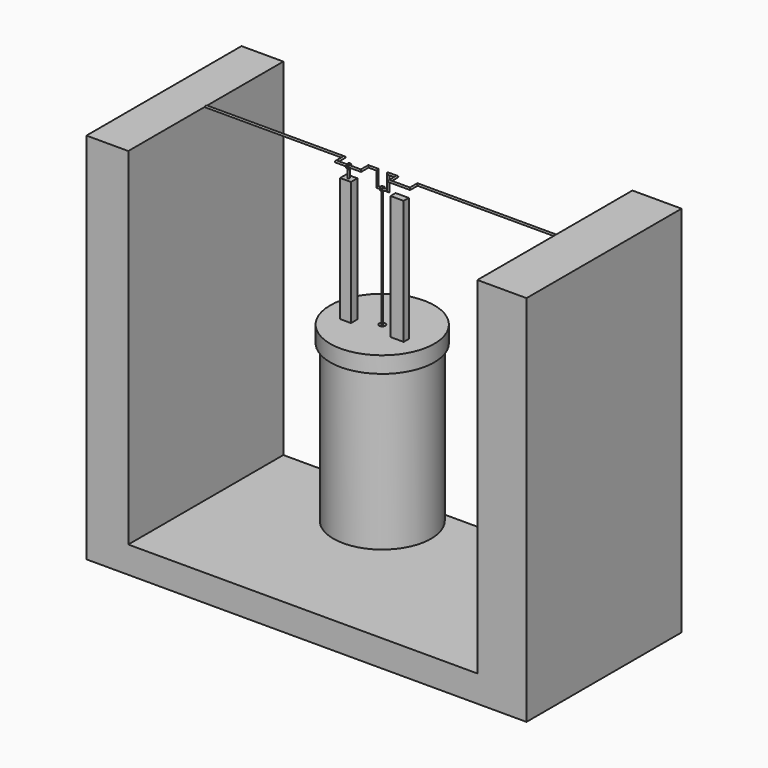
from build123d import *

# Parameters (mm, degrees)
F0_W      = 0.1947950749
F0_H      = 56.1171844602
F0_H_2    = 2.54
F0_H_3    = 19.478252266
F4_R      = 0.4402455132
F11_W     = 5.1980465651
F11_H     = 3.8275388069
F12_DEPTH = 59.2582
F11_W_2   = 6.2818654567
F11_H_2   = 3.045688549
F14_R     = 0.6162294101
F15_DEPTH = 0.44704
F18_R     = 1.1483963801
F18_R_2   = 0.5641964146
F19_DEPTH = 0.3556
F20_R     = 0.3851252417
F21_DEPTH = 4.2672
F22_DEPTH = 46.228


with BuildPart() as f5:
    # F0 (on Front) → F5 (revolve)
    with BuildSketch(Plane.XZ):
        Polygon((0, 74.58024472), (0, 0), (23.299543187, 0), (23.299543187, 2.54), (2.54, 2.54), (2.54, 79.8467842555), (0, 79.8467842555), align=None)
    revolve(axis=Axis((23.299543187, 0, 69.2519843578), (0, 0, 1)))


with BuildPart() as f6:
    # F0 (on Front) → F6 (revolve)
    with BuildSketch(Plane.XZ):
        Polygon((-1.5354988864, 74.58024472), (0, 74.58024472), (0, 79.8467842555), (2.54, 79.8467842555), (21.7997170985, 79.8467842555), (21.7997170985, 82.3867842555), (-1.5354988864, 82.3867842555), align=None)
    revolve(axis=Axis((23.299543187, 0, 69.2519843578), (0, 0, 1)))


with BuildPart() as f7:
    # F0 (on Front) → F7 (revolve)
    with BuildSketch(Plane.XZ):
        Polygon((11.545549036, 18.32194035), (23.299543187, 18.32194035), (23.299543187, 60.3685319895), (23.1047481121, 60.3685319895), (11.545549036, 60.3685319895), align=None)
    revolve(axis=Axis((23.299543187, 0, 69.2519843578), (0, 0, 1)))


with BuildPart() as f8:
    # F0 (on Front) → F8 (revolve)
    with BuildSketch(Plane.XZ):
        with Locations((23.2021456496, 110.4453764856)):
            Rectangle(F0_W, F0_H)
        with Locations((23.2021456496, 81.1167842555)):
            Rectangle(F0_W, F0_H_2)
        with Locations((23.2021456496, 70.1076581225)):
            Rectangle(F0_W, F0_H_3)
    revolve(axis=Axis((23.299543187, 0, 69.2519843578), (0, 0, 1)))

    # F14 (on line) → F15 (join, symmetric)
    with BuildSketch(Plane(origin=(23.299543187, 0, 0), x_dir=(0, -1, 0), z_dir=(-1, 0, 0))):
        with BuildLine():
            ThreePointArc((0.2958931431, 138.5512784378), (0.7685494681, 138.8962742348), (0.9489694498, 139.4529381654))
            ThreePointArc((0.9489694498, 139.4529381654), (-0.5393416407, 140.2337413488), (-0.3359056562, 138.5654076551))
            ThreePointArc((-0.3359056562, 138.5654076551), (-0.0212169507, 138.5042059284), (0.2958931431, 138.5512784378))
        make_face()
        with Locations((0, 139.4529381654)):
            Circle(F14_R, mode=Mode.SUBTRACT)
        with BuildLine():
            ThreePointArc((0.2958931431, 138.5512784378), (-0.0212169507, 138.5042059284), (-0.3359056562, 138.5654076551))
            Line((-0.3359056562, 138.5654076551), (-0.1596877119, 138.2169872522))
            Line((-0.1596877119, 138.2169872522), (0.1326351194, 138.2169872522))
            Line((0.1326351194, 138.2169872522), (0.2958931431, 138.5512784378))
        make_face()
    extrude(amount=F15_DEPTH, both=True)


with BuildPart() as f9:
    # F9: sweep along a path in F2, F0, F2
    with BuildLine(Plane.XY.offset(146.6739177704)) as f9_path:
        Line((-60.8838684857, 0), (5.0106160343, 0))
        Line((5.0106160343, 0), (5.0106160343, -4.4537703507))
        Line((5.0106160343, -4.4537703507), (16.7084876448, -4.4537703507))
        Line((16.7084876448, -4.4537703507), (16.7084876448, 0))
    with BuildLine(Plane.XZ) as f9_path_2:
        Line((16.7084876448, 146.6739177704), (20.9937285455, 146.6739177704))
        Line((20.9937285455, 146.6739177704), (20.9937285455, 139.4529381654))
        Line((20.9937285455, 139.4529381654), (23.299543187, 139.4529381654))
        Line((23.299543187, 139.4529381654), (26.1920172544, 139.4529381654))
        Line((26.1920172544, 139.4529381654), (26.1920172544, 146.6739177704))
        Line((26.1920172544, 146.6739177704), (30.210101977, 146.6739177704))
    with BuildLine(Plane.XY.offset(146.6739177704)) as f9_path_3:
        Line((30.210101977, 0), (30.210101977, -4.4537703507))
        Line((30.210101977, -4.4537703507), (40.1001647115, -4.4537703507))
        Line((40.1001647115, -4.4537703507), (40.1001647115, 0))
        Line((40.1001647115, 0), (105.6554988027, 0))
    # F4 (on line) → F9 (sweep)
    with BuildSketch(Plane(origin=(-60.8838684857, 0, 0), x_dir=(0, -1, 0), z_dir=(-1, 0, 0))):
        with Locations((0, 146.6739177704)):
            Circle(F4_R)
    sweep(path=f9_path.line + f9_path_2.line + f9_path_3.line, transition=Transition.RIGHT)


with BuildPart() as f12:
    # F11 (on line) → F12 (new body)
    with BuildSketch(Plane(origin=(0, 0, 82.3867842555), x_dir=(1, 0, 0), z_dir=(0, 0, -1))):
        with Locations((10.8595518395, 4.4537703507)):
            Rectangle(F11_W, F11_H)
    extrude(amount=-F12_DEPTH)


with BuildPart() as f12b:
    # F11 (on line) → F12, piece 2 (new body)
    with BuildSketch(Plane(origin=(0, 0, 82.3867842555), x_dir=(1, 0, 0), z_dir=(0, 0, -1))):
        with Locations((35.1551333442, 4.4537703507)):
            Rectangle(F11_W_2, F11_H_2)
    extrude(amount=-F12_DEPTH)


with BuildPart() as f19:
    # F18 (on line) → F19 (new body, symmetric)
    with BuildSketch(Plane.YZ.offset(10.8595518395)):
        with Locations((-4.4537703507, 146.6739177704)):
            Circle(F18_R)
        with Locations((-4.4537703507, 146.6739177704)):
            Circle(F18_R_2, mode=Mode.SUBTRACT)
    extrude(amount=F19_DEPTH, both=True)

    # F20 (on face) → F21 (join)
    with BuildSketch(Plane.XY.offset(141.6449842555)):
        with Locations((10.8595518395, -4.4537703507)):
            Circle(F20_R)
    extrude(amount=F21_DEPTH)


with BuildPart() as f22:
    # F0 (on Front) → F22 (new body, symmetric)
    with BuildSketch(Plane.XZ):
        Polygon((-60.8838684857, -18.5810942203), (-60.8838684857, 146.6739177704), (-80.8416977525, 146.6739177704), (-80.8416977525, -31.3054174185), (129.0952712297, -31.3054174185), (129.0952712297, 146.6739177704), (105.6554988027, 146.6739177704), (105.6554988027, -18.5810942203), align=None)
    extrude(amount=F22_DEPTH, both=True)


solid = Compound([f5.part, f6.part, f7.part, f8.part, f9.part, f12.part, f12b.part, f19.part, f22.part])
